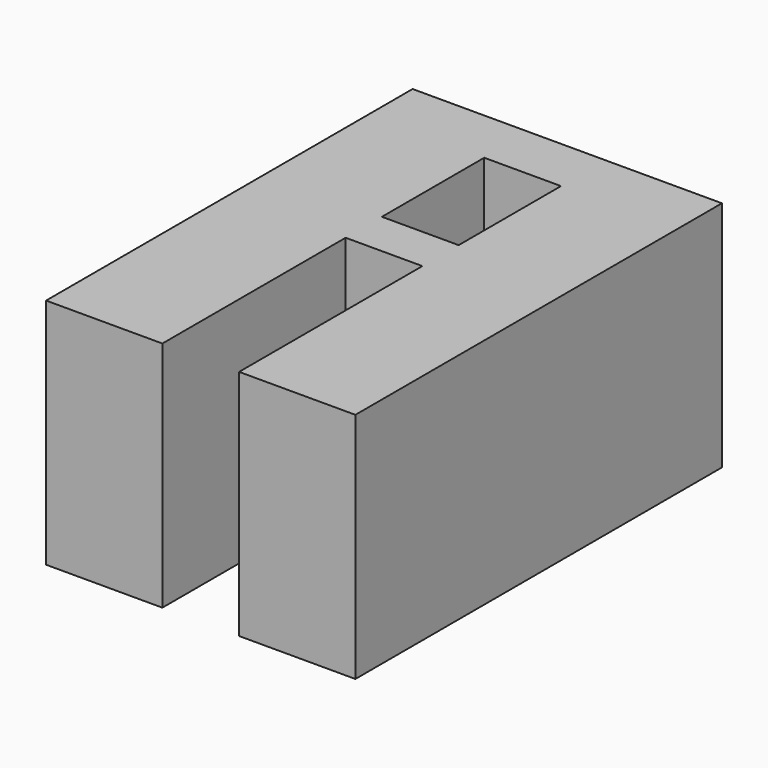
from build123d import *

# Parameters (mm, degrees)
F0_W     = 8.382
F0_H     = 13.97
F1_DEPTH = 25.4


with BuildPart() as f1:
    # F0 (on Top) → F1 (new body)
    with BuildSketch(Plane.XY):
        Polygon((-12.192, 25.527), (-24.892, 25.527), (-24.892, 19.431), (-24.892, 5.461), (-24.892, 0.508), (-24.892, -24.511), (-12.192, -24.511), (-12.192, 0.508), (-3.81, 0.508), (-3.81, -24.511), (8.89, -24.511), (8.89, 0.508), (8.89, 5.461), (8.89, 19.431), (8.89, 25.527), (-3.81, 25.527), align=None)
        with Locations((-8.001, 12.446)):
            Rectangle(F0_W, F0_H, mode=Mode.SUBTRACT)
    extrude(amount=F1_DEPTH)


solid = f1.part
